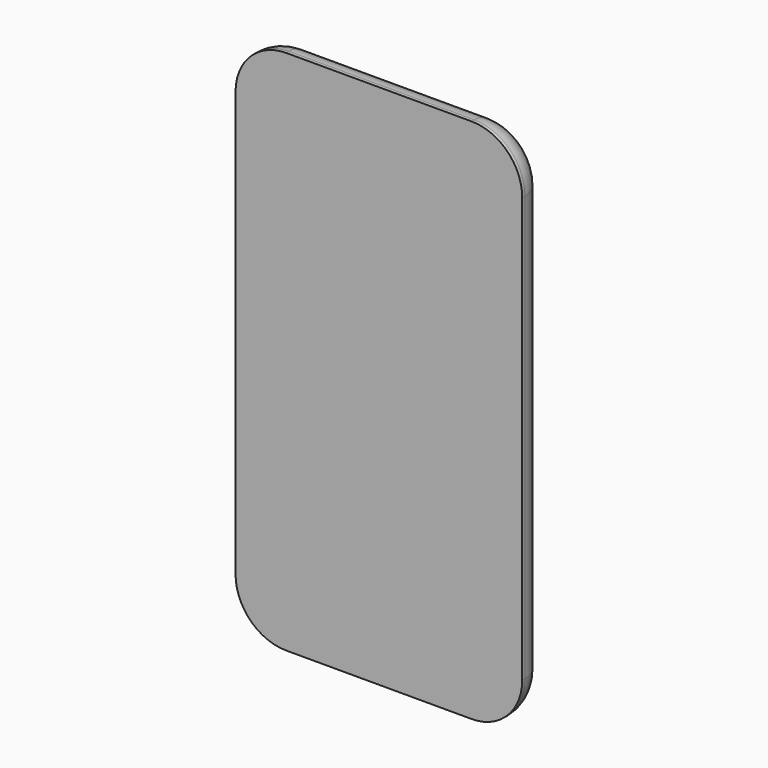
from build123d import *

# Parameters (mm, degrees)
F1_DEPTH = 9
F2_R     = 8


with BuildPart() as f1:
    # F0 (on Front) → F1 (new body)
    with BuildSketch(Plane.XZ):
        with BuildLine():
            ThreePointArc((-42.5, -63), (-38.106602, -73.606602), (-27.5, -78))
            Line((-27.5, -78), (27.5, -78))
            ThreePointArc((27.5, -78), (38.106602, -73.606602), (42.5, -63))
            Line((42.5, -63), (42.5, 63))
            ThreePointArc((42.5, 63), (38.106602, 73.606602), (27.5, 78))
            Line((27.5, 78), (-27.5, 78))
            ThreePointArc((-27.5, 78), (-38.106602, 73.606602), (-42.5, 63))
            Line((-42.5, 63), (-42.5, -63))
        make_face()
    extrude(amount=F1_DEPTH)

    # F2
    f2_edges = [f1.edges().sort_by_distance(p)[0] for p in [
        (-38.106602, 0, -73.606602),
        (0, 0, -78),
        (38.106602, 0, -73.606602),
        (42.5, 0, 0),
        (38.106602, 0, 73.606602),
        (0, 0, 78),
        (-38.106602, 0, 73.606602),
        (-42.5, 0, 0),
    ]]
    fillet(f2_edges, radius=F2_R)


solid = f1.part
